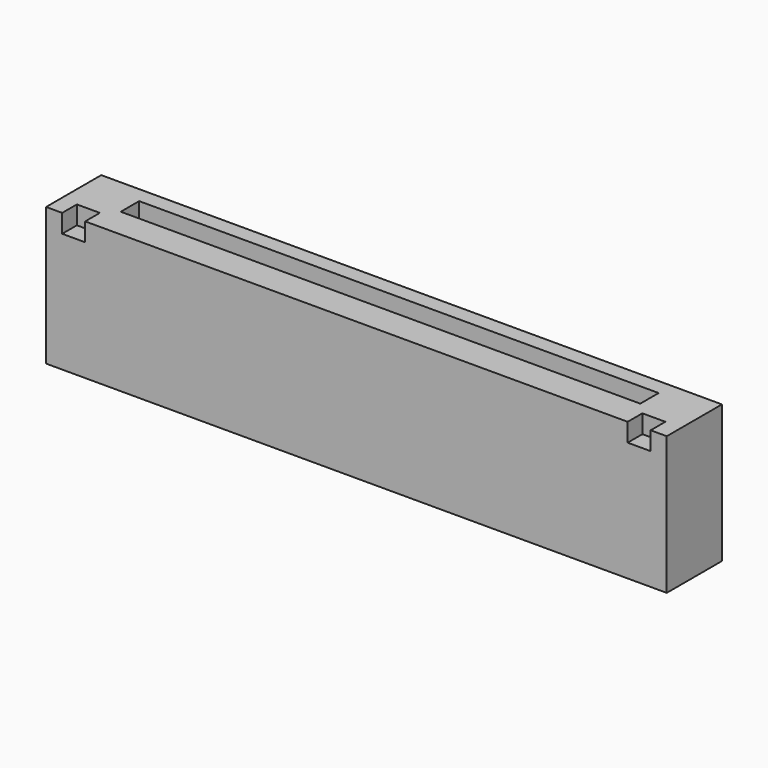
from build123d import *

# Parameters (mm, degrees)
F0_W     = 135
F0_H     = 30
F1_DEPTH = 15
F2_W     = 113
F2_H     = 5
F3_DEPTH = 4
F4_W     = 5
F4_H     = 4
F5_DEPTH = 4


with BuildPart() as f1:
    # F0 (on Front) → F1 (new body)
    with BuildSketch(Plane.XZ):
        with Locations((0, 15)):
            Rectangle(F0_W, F0_H)
    extrude(amount=F1_DEPTH)

    # F2 (on face) → F3 (cut)
    with BuildSketch(Plane.XY.offset(30)):
        with Locations((0, -5.95)):
            Rectangle(F2_W, F2_H)
    extrude(amount=-F3_DEPTH, mode=Mode.SUBTRACT)

    # F4 (on face) → F5 (cut)
    with BuildSketch(Plane.XY.offset(30)):
        with Locations((61.5, -13)):
            Rectangle(F4_W, F4_H)
        with Locations((-61.5, -13)):
            Rectangle(F4_W, F4_H)
    extrude(amount=-F5_DEPTH, mode=Mode.SUBTRACT)


solid = f1.part
